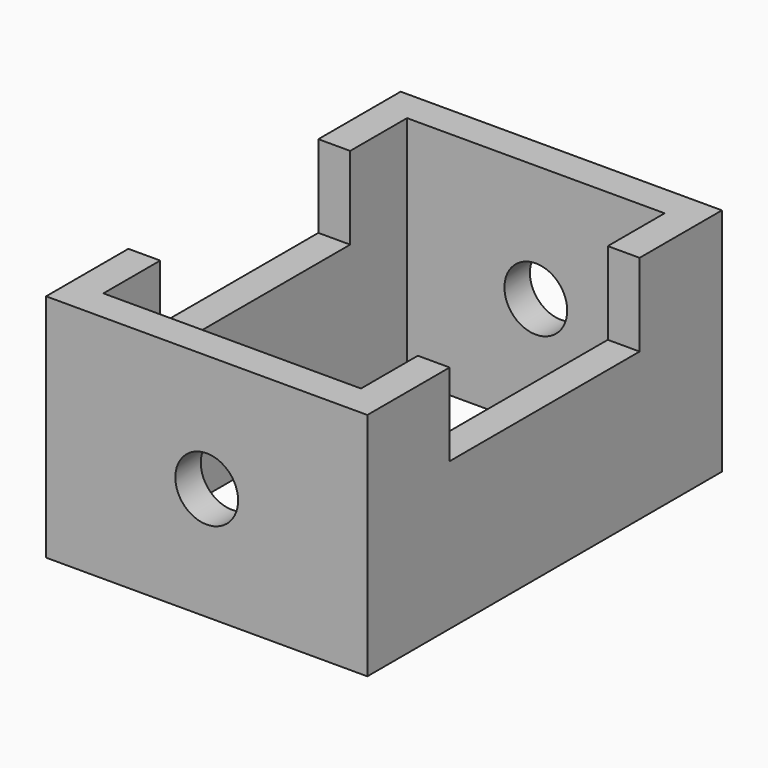
from build123d import *

# Parameters (mm, degrees)
F0_W     = 89.724988
F0_H     = 123.777248
F0_W_2   = 71.94499
F0_H_2   = 105.99725
F1_DEPTH = 64.262
F2_R     = 8.769798
F3_DEPTH = 149.86
F4_W     = 66.31229
F4_H     = 46.081694
F5_DEPTH = 136.906


with BuildPart() as f1:
    # F0 (on Top) → F1 (new body)
    with BuildSketch(Plane.XY):
        Rectangle(F0_W, F0_H)
        Rectangle(F0_W_2, F0_H_2, mode=Mode.SUBTRACT)
    extrude(amount=F1_DEPTH)

    # F2 (on face) → F3 (cut)
    with BuildSketch(Plane.XZ.offset(61.888624)):
        with Locations((0, 31.491935)):
            Circle(F2_R)
    extrude(amount=-F3_DEPTH, mode=Mode.SUBTRACT)

    # F4 (on face) → F5 (cut)
    with BuildSketch(Plane(origin=(-44.862494, 0, 0), x_dir=(0, -1, 0), z_dir=(-1, 0, 0))):
        with Locations((0, 64.262)):
            Rectangle(F4_W, F4_H)
    extrude(amount=-F5_DEPTH, mode=Mode.SUBTRACT)


solid = f1.part
